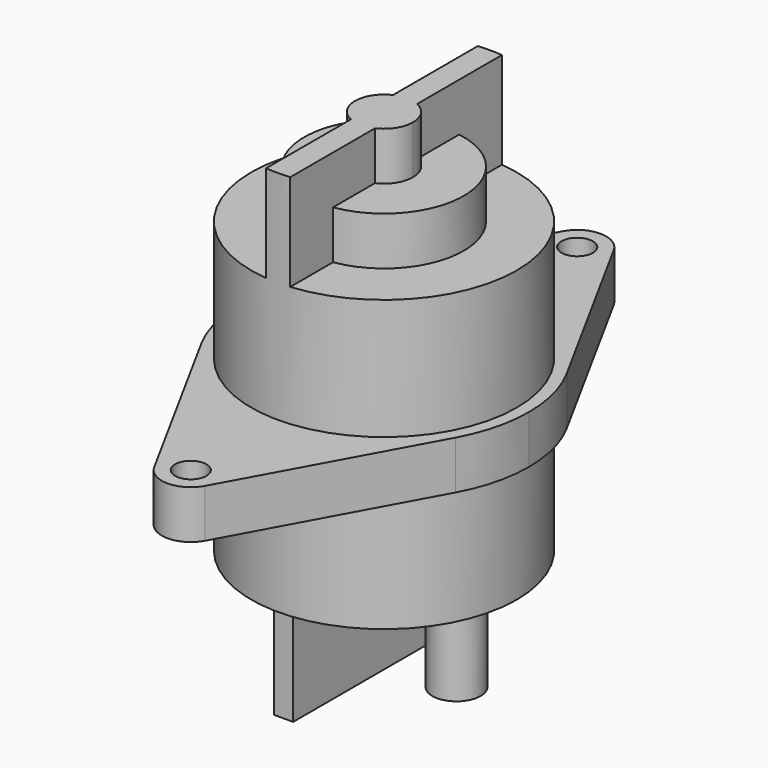
from build123d import *

# Parameters (mm, degrees)
F0_R      = 3.25
F1_DEPTH  = 50
F2_W      = 120.846782
F2_H      = 139.899194
F2_R      = 27.5
F3_DEPTH  = 45
F5_DEPTH  = 20
F7_DEPTH  = 10
F8_R      = 3.25
F8_R_2    = 27.5
F9_DEPTH  = 45
F10_W     = 122.298393
F10_H     = 98.165326
F10_R     = 5
F11_DEPTH = 20
F12_W     = 4
F12_H     = 52
F13_DEPTH = 20


with BuildPart() as f1:
    # F0 (on Top) → F1 (new body, symmetric)
    with BuildSketch(Plane.XY):
        with BuildLine():
            ThreePointArc((26.318053, -14.400002), (29.064941, -7.431635), (30, 0))
            ThreePointArc((30, 0), (29.064941, 7.431635), (26.318053, 14.400002))
            ThreePointArc((26.318053, 14.400002), (0, 30), (-26.318053, 14.400002))
            ThreePointArc((-26.318053, 14.400002), (-30, 0), (-26.318053, -14.400002))
            ThreePointArc((-26.318053, -14.400002), (0, -30), (26.318053, -14.400002))
        make_face()
        with BuildLine():
            ThreePointArc((-26.318053, 14.400002), (0, 30), (26.318053, 14.400002))
            Line((26.318053, 14.400002), (5.263611, 52.88))
            ThreePointArc((5.263611, 52.88), (5.812988, 51.486327), (6, 50))
            ThreePointArc((6, 50), (-1.486327, 44.187012), (-5.263611, 52.88))
            Line((-5.263611, 52.88), (-26.318053, 14.400002))
        make_face()
        with BuildLine():
            Line((5.263611, -52.88), (26.318053, -14.400002))
            ThreePointArc((26.318053, -14.400002), (0, -30), (-26.318053, -14.400002))
            Line((-26.318053, -14.400002), (-5.263611, -52.88))
            ThreePointArc((-5.263611, -52.88), (-1.486327, -44.187012), (6, -50))
            ThreePointArc((6, -50), (5.812988, -51.486327), (5.263611, -52.88))
        make_face()
        with BuildLine():
            ThreePointArc((6, 50), (5.812988, 51.486327), (5.263611, 52.88))
            ThreePointArc((5.263611, 52.88), (0, 56), (-5.263611, 52.88))
            ThreePointArc((-5.263611, 52.88), (-1.486327, 44.187012), (6, 50))
        make_face()
        with Locations((0, 50)):
            Circle(F0_R, mode=Mode.SUBTRACT)
        with BuildLine():
            ThreePointArc((-5.263611, -52.88), (0, -56), (5.263611, -52.88))
            ThreePointArc((5.263611, -52.88), (5.812988, -51.486327), (6, -50))
            ThreePointArc((6, -50), (-1.486327, -44.187012), (-5.263611, -52.88))
        make_face()
        with Locations((0, -50)):
            Circle(F0_R, mode=Mode.SUBTRACT)
    extrude(amount=F1_DEPTH, both=True)

    # F2 (on face) → F3 (cut)
    with BuildSketch(Plane.XY.offset(50)):
        with Locations((4.808469, 0)):
            Rectangle(F2_W, F2_H)
        Circle(F2_R, mode=Mode.SUBTRACT)
    extrude(amount=-F3_DEPTH, mode=Mode.SUBTRACT)

    # F4 (on face) → F5 (cut)
    with BuildSketch(Plane.XY.offset(50)):
        with BuildLine():
            Line((-2.5, 16.312995), (-2.5, 38.387493))
            ThreePointArc((-2.5, 38.387493), (-38.468814, 0), (-2.5, -38.387493))
            Line((-2.5, -38.387493), (-2.5, -16.312995))
            ThreePointArc((-2.5, -16.312995), (-16.503448, 0), (-2.5, 16.312995))
        make_face()
        with BuildLine():
            ThreePointArc((2.5, -38.387493), (38.468814, 0), (2.5, 38.387493))
            Line((2.5, 38.387493), (2.5, 16.312995))
            ThreePointArc((2.5, 16.312995), (16.503448, 0), (2.5, -16.312995))
            Line((2.5, -16.312995), (2.5, -38.387493))
        make_face()
    extrude(amount=-F5_DEPTH, mode=Mode.SUBTRACT)

    # F6 (on face) → F7 (cut)
    with BuildSketch(Plane.XY.offset(50)):
        with BuildLine():
            ThreePointArc((2.5, 5.454356), (5.049752, 3.24037), (6, 0))
            ThreePointArc((6, 0), (5.049752, -3.24037), (2.5, -5.454356))
            Line((2.5, -5.454356), (2.5, -22.150979))
            ThreePointArc((2.5, -22.150979), (22.29161, 0), (2.5, 22.150979))
            Line((2.5, 22.150979), (2.5, 5.454356))
        make_face()
        with BuildLine():
            ThreePointArc((-2.5, -5.454356), (-6, 0), (-2.5, 5.454356))
            Line((-2.5, 5.454356), (-2.5, 22.150979))
            ThreePointArc((-2.5, 22.150979), (-22.29161, 0), (-2.5, -22.150979))
            Line((-2.5, -22.150979), (-2.5, -5.454356))
        make_face()
        with BuildLine():
            ThreePointArc((-2.5, -16.312995), (-16.503448, 0), (-2.5, 16.312995))
            Line((-2.5, 16.312995), (-2.5, 22.150979))
            ThreePointArc((-2.5, 22.150979), (-22.29161, 0), (-2.5, -22.150979))
            Line((-2.5, -22.150979), (-2.5, -16.312995))
        make_face()
        with BuildLine():
            Line((2.5, 22.150979), (2.5, 16.312995))
            ThreePointArc((2.5, 16.312995), (16.503448, 0), (2.5, -16.312995))
            Line((2.5, -16.312995), (2.5, -22.150979))
            ThreePointArc((2.5, -22.150979), (22.29161, 0), (2.5, 22.150979))
        make_face()
    extrude(amount=-F7_DEPTH, mode=Mode.SUBTRACT)

    # F8 (on face) → F9 (cut)
    with BuildSketch(Plane(origin=(0, 0, -50), x_dir=(1, 0, 0), z_dir=(0, 0, -1))):
        with BuildLine():
            Line((5.263611, -52.88), (26.318053, -14.400002))
            ThreePointArc((26.318053, -14.400002), (30, 0), (26.318053, 14.400002))
            Line((26.318053, 14.400002), (5.263611, 52.88))
            ThreePointArc((5.263611, 52.88), (0, 56), (-5.263611, 52.88))
            Line((-5.263611, 52.88), (-26.318053, 14.400002))
            ThreePointArc((-26.318053, 14.400002), (-30, 0), (-26.318053, -14.400002))
            Line((-26.318053, -14.400002), (-5.263611, -52.88))
            ThreePointArc((-5.263611, -52.88), (0, -56), (5.263611, -52.88))
        make_face()
        with Locations((0, -50)):
            Circle(F8_R, mode=Mode.SUBTRACT)
        Circle(F8_R_2, mode=Mode.SUBTRACT)
        with Locations((0, 50)):
            Circle(F8_R, mode=Mode.SUBTRACT)
    extrude(amount=-F9_DEPTH, mode=Mode.SUBTRACT)

    # F10 (on face) → F11 (cut)
    with BuildSketch(Plane(origin=(0, 0, -50), x_dir=(1, 0, 0), z_dir=(0, 0, -1))):
        with Locations((4.808468, -5.987905)):
            Rectangle(F10_W, F10_H)
        with Locations((-15, 0)):
            Circle(F10_R, mode=Mode.SUBTRACT)
        with Locations((15, 0)):
            Circle(F10_R, mode=Mode.SUBTRACT)
    extrude(amount=-F11_DEPTH, mode=Mode.SUBTRACT)

    # F12 (on face) → F13 (join)
    with BuildSketch(Plane(origin=(0, 0, -30), x_dir=(1, 0, 0), z_dir=(0, 0, -1))):
        Rectangle(F12_W, F12_H)
    extrude(amount=F13_DEPTH)


solid = f1.part
